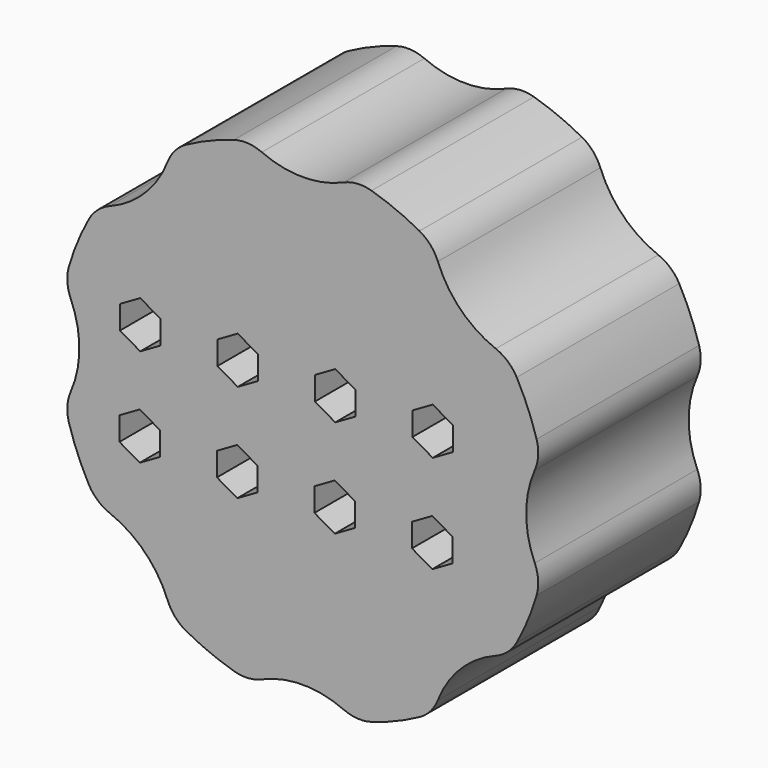
from build123d import *

# Parameters (mm, degrees)
F1_DEPTH = 25


with BuildPart() as f1:
    # F0 (on Front) → F1 (new body)
    with BuildSketch(Plane.XZ):
        with BuildLine():
            ThreePointArc((-5.038108, 28.560268), (-6.731504, 28.974006), (-8.464021, 28.78125))
            ThreePointArc((-8.464021, 28.78125), (-11.480503, 27.716386), (-14.366451, 26.336384))
            ThreePointArc((-14.366451, 26.336384), (-15.727824, 25.247608), (-16.632679, 23.757639))
            ThreePointArc((-16.632679, 23.757639), (-19.445436, 19.445436), (-23.757639, 16.632679))
            ThreePointArc((-23.757639, 16.632679), (-25.247608, 15.727824), (-26.336384, 14.366451))
            ThreePointArc((-26.336384, 14.366451), (-27.716386, 11.480503), (-28.78125, 8.464021))
            ThreePointArc((-28.78125, 8.464021), (-28.974006, 6.731504), (-28.560268, 5.038108))
            ThreePointArc((-28.560268, 5.038108), (-27.5, 0), (-28.560268, -5.038108))
            ThreePointArc((-28.560268, -5.038108), (-28.974006, -6.731504), (-28.78125, -8.464021))
            ThreePointArc((-28.78125, -8.464021), (-27.716386, -11.480503), (-26.336384, -14.366451))
            ThreePointArc((-26.336384, -14.366451), (-25.247608, -15.727824), (-23.757639, -16.632679))
            ThreePointArc((-23.757639, -16.632679), (-19.445436, -19.445436), (-16.632679, -23.757639))
            ThreePointArc((-16.632679, -23.757639), (-15.727824, -25.247608), (-14.366451, -26.336384))
            ThreePointArc((-14.366451, -26.336384), (-11.480503, -27.716386), (-8.464021, -28.78125))
            ThreePointArc((-8.464021, -28.78125), (-6.731504, -28.974006), (-5.038108, -28.560268))
            ThreePointArc((-5.038108, -28.560268), (0, -27.5), (5.038108, -28.560268))
            ThreePointArc((5.038108, -28.560268), (6.731504, -28.974006), (8.464021, -28.78125))
            ThreePointArc((8.464021, -28.78125), (11.480503, -27.716386), (14.366451, -26.336384))
            ThreePointArc((14.366451, -26.336384), (15.727824, -25.247608), (16.632679, -23.757639))
            ThreePointArc((16.632679, -23.757639), (19.445436, -19.445436), (23.757639, -16.632679))
            ThreePointArc((23.757639, -16.632679), (25.247608, -15.727824), (26.336384, -14.366451))
            ThreePointArc((26.336384, -14.366451), (27.716386, -11.480503), (28.78125, -8.464021))
            ThreePointArc((28.78125, -8.464021), (28.974006, -6.731504), (28.560268, -5.038108))
            ThreePointArc((28.560268, -5.038108), (27.5, 0), (28.560268, 5.038108))
            ThreePointArc((28.560268, 5.038108), (28.974006, 6.731504), (28.78125, 8.464021))
            ThreePointArc((28.78125, 8.464021), (27.716386, 11.480503), (26.336384, 14.366451))
            ThreePointArc((26.336384, 14.366451), (25.247608, 15.727824), (23.757639, 16.632679))
            ThreePointArc((23.757639, 16.632679), (19.445436, 19.445436), (16.632679, 23.757639))
            ThreePointArc((16.632679, 23.757639), (15.727824, 25.247608), (14.366451, 26.336384))
            ThreePointArc((14.366451, 26.336384), (11.480503, 27.716386), (8.464021, 28.78125))
            ThreePointArc((8.464021, 28.78125), (6.731504, 28.974006), (5.038108, 28.560268))
            ThreePointArc((5.038108, 28.560268), (0, 27.5), (-5.038108, 28.560268))
        make_face()
        Polygon((-20.06, -4.198434), (-20, -4.233075), (-17.56, -5.64181), (-17.56, -7), (-17.56, -8.528561), (-20.06, -9.971937), (-22.56, -8.528561), (-22.56, -5.64181), align=None, mode=Mode.SUBTRACT)
        Polygon((-8.06, -9.915313), (-10.56, -8.471937), (-10.56, -5.585186), (-8.06, -4.14181), (-5.56, -5.585186), (-5.56, -8.471937), align=None, mode=Mode.SUBTRACT)
        Polygon((6.44, -8.415313), (3.94, -9.858688), (1.44, -8.415313), (1.44, -5.528561), (3.94, -4.085186), (6.44, -5.528561), align=None, mode=Mode.SUBTRACT)
        Polygon((13.44, -8.358688), (13.44, -5.471937), (15.94, -4.028561), (18.44, -5.471937), (18.44, -8.358688), (15.94, -9.802064), align=None, mode=Mode.SUBTRACT)
        Polygon((-17.5, 6.443376), (-17.5, 3.556624), (-20, 2.113249), (-22.5, 3.556624), (-22.5, 6.443376), (-20, 7.886751), align=None, mode=Mode.SUBTRACT)
        Polygon((-10.5, 3.613249), (-10.5, 6.5), (-8, 7.943376), (-5.5, 6.5), (-5.5, 3.613249), (-8, 2.169873), align=None, mode=Mode.SUBTRACT)
        Polygon((1.5, 3.669873), (1.5, 6.556624), (4, 8), (6.5, 6.556624), (6.5, 3.669873), (4, 2.226497), align=None, mode=Mode.SUBTRACT)
        Polygon((13.5, 3.726497), (13.5, 6.613249), (16, 8.056624), (18.5, 6.613249), (18.5, 3.726497), (16, 2.283122), align=None, mode=Mode.SUBTRACT)
    extrude(amount=F1_DEPTH)


solid = f1.part
